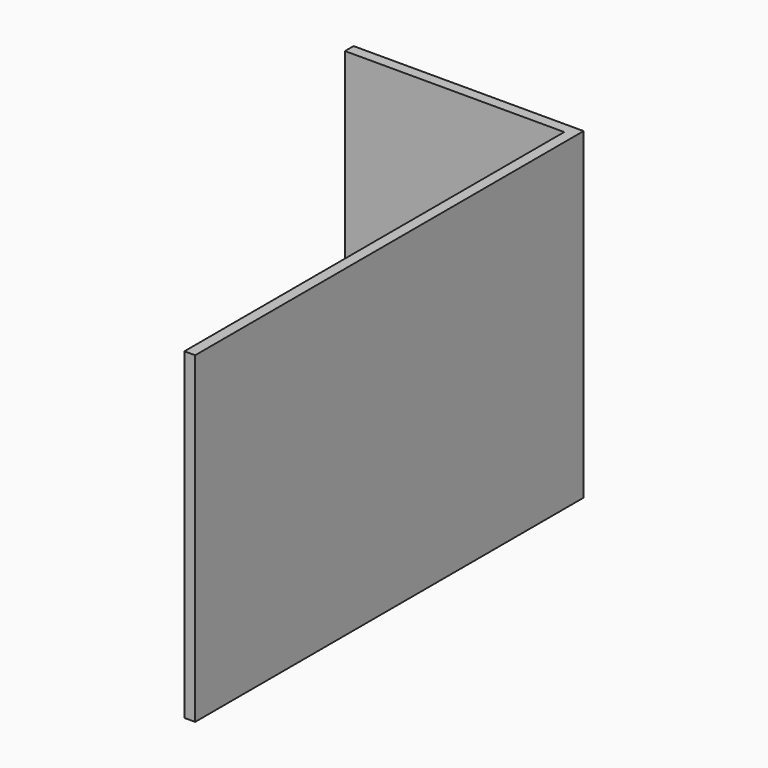
from build123d import *

# Parameters (mm, degrees)
F0_W     = 246.0625
F0_H     = 12.704174
F0_W_2   = 12.7
F1_DEPTH = 381
F0_H_2   = 560.383326
F2_DEPTH = 381


with BuildPart() as f1:
    # F0 (on Top) → F1 (new body)
    with BuildSketch(Plane.XY):
        with Locations((4.090343, 274.576773)):
            Rectangle(F0_W, F0_H)
        with Locations((-125.290907, 274.576773)):
            Rectangle(F0_W_2, F0_H)
        with Locations((133.471593, 274.576773)):
            Rectangle(F0_W_2, F0_H)
    extrude(amount=F1_DEPTH)

    # F0 (on Top) → F2 (join)
    with BuildSketch(Plane.XY):
        with Locations((133.471593, 274.576773)):
            Rectangle(F0_W_2, F0_H)
        with Locations((133.471593, -11.966977)):
            Rectangle(F0_W_2, F0_H_2)
    extrude(amount=F2_DEPTH)


solid = f1.part
